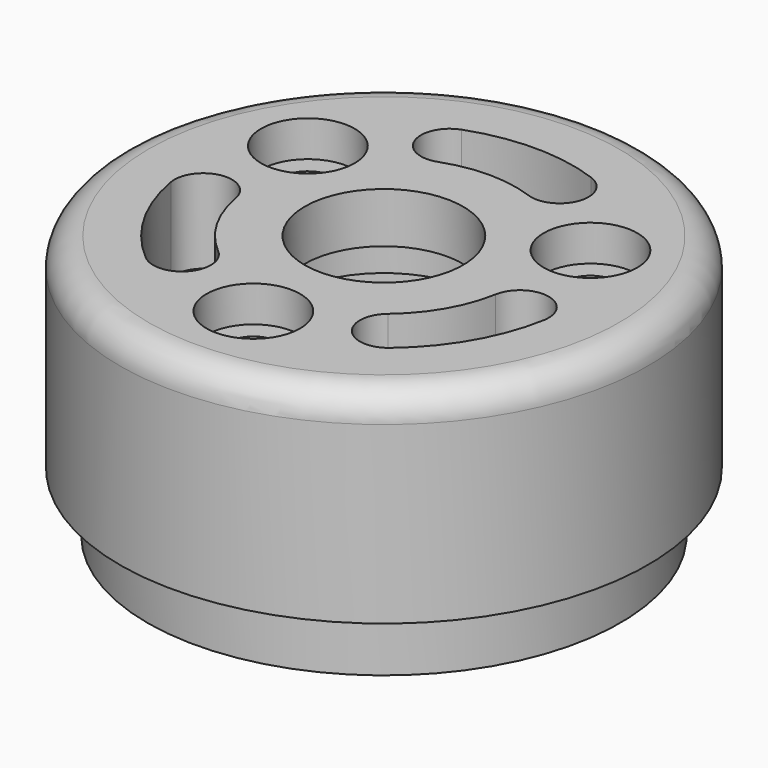
from build123d import *

# Parameters (mm, degrees)
SKETCH037_R             = 11
PAD014_DEPTH            = 8.5
SKETCH038_R             = 9.85
PAD015_DEPTH            = 2.5
SKETCH039_R             = 9
POCKET025_DEPTH         = 7.5
SKETCH040_R             = 1.95
POCKET026_DEPTH         = 1.5
FILLET011_R             = 1.2
SKETCH041_R             = 1.1
POCKET027_DEPTH         = 2
SKETCH042_R             = 3.3
POCKET028_DEPTH         = 3.5
SKETCH043_R             = 4.1
POCKET029_DEPTH         = 1.4
BODY013_PLACEMENT_ANGLE = 180.00001


with BuildPart() as part:
    # Sketch037 → Pad014 (new body)
    with BuildSketch(Plane.XY):
        Circle(SKETCH037_R)
    extrude(amount=PAD014_DEPTH)

    # Sketch038 (on Face3 of Pad014) → Pad015 (join)
    with BuildSketch(Plane.XY.offset(8.5)):
        Circle(SKETCH038_R)
    extrude(amount=PAD015_DEPTH)

    # Sketch039 (on Face5 of Pad015) → Pocket025 (cut)
    with BuildSketch(Plane.XY.offset(11)):
        Circle(SKETCH039_R)
    extrude(amount=-POCKET025_DEPTH, mode=Mode.SUBTRACT)

    # Sketch040 (on Face2 of Pocket025) → Pocket026 (cut)
    with BuildSketch(Plane(origin=(0, 0, 0), x_dir=(1, 0, 0), z_dir=(0, 0, -1))):
        with Locations((0, 6.8)):
            Circle(SKETCH040_R)
        with Locations((-5.8889727457, -3.4)):
            Circle(SKETCH040_R)
        with Locations((5.8889727457, -3.4)):
            Circle(SKETCH040_R)
    extrude(amount=-POCKET026_DEPTH, mode=Mode.SUBTRACT)

    # Fillet011
    fillet011_edges = [part.edges().sort_by_distance(p)[0] for p in [
        (-11, 0, 0),
    ]]
    fillet(fillet011_edges, radius=FILLET011_R)

    # Sketch041 (on Face11 of Fillet011) → Pocket027 (cut)
    with BuildSketch(Plane(origin=(0, 0, 1.5), x_dir=(1, 0, 0), z_dir=(0, 0, -1))):
        with Locations((-5.8889727457, -3.4)):
            Circle(SKETCH041_R)
        with Locations((0, 6.8)):
            Circle(SKETCH041_R)
        with Locations((5.8889727457, -3.4)):
            Circle(SKETCH041_R)
    extrude(amount=-POCKET027_DEPTH, mode=Mode.SUBTRACT)

    # Sketch042 (on Face4 of Pocket027) → Pocket028 (cut)
    with BuildSketch(Plane(origin=(0, 0, 0), x_dir=(1, 0, 0), z_dir=(0, 0, -1))):
        Circle(SKETCH042_R)
        with BuildLine():
            ThreePointArc((-3.5353318533, 4.2132444372), (-3.3874236532, 5.9038429005), (-5.0780221165, 6.0517511006))
            ThreePointArc((-5.0780221165, 6.0517511006), (-6.8416006899, 3.95), (-7.7799812488, 1.3718206036))
            ThreePointArc((-7.7799812488, 1.3718206036), (-6.8065897584, -0.0183265132), (-5.4164426416, 0.9550649772))
            ThreePointArc((-3.5353318533, 4.2132444372), (-4.7631397208, 2.75), (-5.4164426416, 0.9550649772))
        make_face()
        with BuildLine():
            ThreePointArc((5.0780221165, 6.0517511006), (3.3874236532, 5.9038429005), (3.5353318533, 4.2132444372))
            ThreePointArc((5.4164426416, 0.9550649772), (4.7631397208, 2.75), (3.5353318533, 4.2132444372))
            ThreePointArc((5.4164426416, 0.9550649772), (6.8065897584, -0.0183265132), (7.7799812488, 1.3718206036))
            ThreePointArc((7.7799812488, 1.3718206036), (6.8416006899, 3.95), (5.0780221165, 6.0517511006))
        make_face()
        with BuildLine():
            ThreePointArc((-1.8811107883, -5.1683094143), (-3.4191661052, -5.8855163873), (-2.7019591323, -7.4235717042))
            ThreePointArc((-2.7019591323, -7.4235717042), (0, -7.9), (2.7019591323, -7.4235717042))
            ThreePointArc((2.7019591323, -7.4235717042), (3.4191661052, -5.8855163873), (1.8811107883, -5.1683094143))
            ThreePointArc((-1.8811107883, -5.1683094143), (0, -5.5), (1.8811107883, -5.1683094143))
        make_face()
    extrude(amount=-POCKET028_DEPTH, mode=Mode.SUBTRACT)

    # Sketch043 (on Face23 of Pocket028) → Pocket029 (cut)
    with BuildSketch(Plane.XY.offset(3.5)):
        Circle(SKETCH043_R)
    extrude(amount=-POCKET029_DEPTH, mode=Mode.SUBTRACT)


with BuildPart() as part_1:
    # Body013 placement: moved
    add(part.part.moved(Location((2.3918e-06, 1e-05, 139.00003))).rotate(Axis((2.3918e-06, 1e-05, 139.00003), (0, 1, 0)), BODY013_PLACEMENT_ANGLE))


solid = part_1.part
